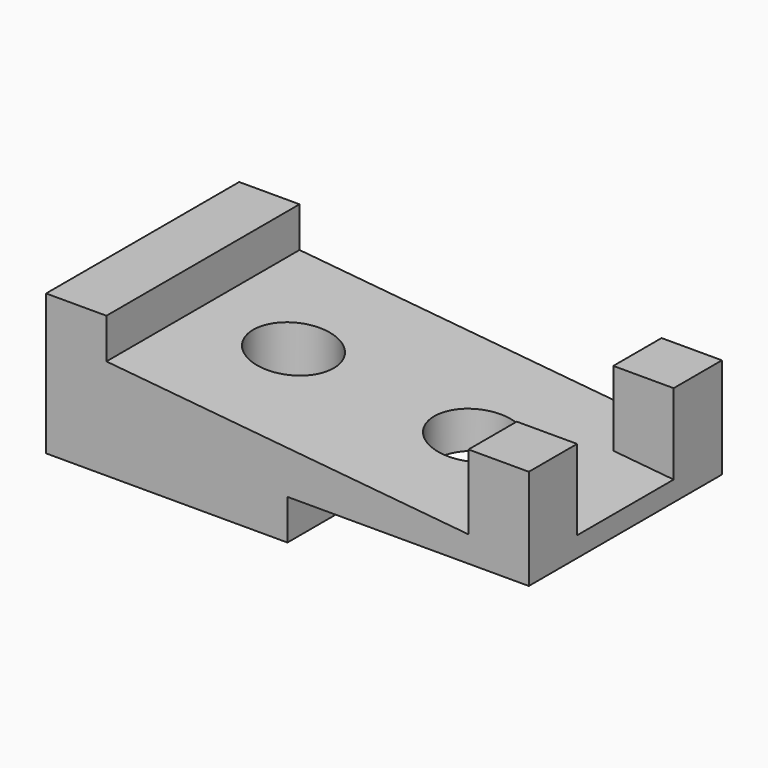
from build123d import *

# Parameters (mm, degrees)
SKETCH_W        = 120
SKETCH_H        = 60
PAD_DEPTH       = 35
POCKET_DEPTH    = 60.001
SKETCH002_W     = 15
SKETCH002_H     = 15
PAD001_DEPTH    = 35
SKETCH003_R     = 10
POCKET001_DEPTH = 35.001
SKETCH004_W     = 60
SKETCH004_H     = 60
POCKET002_DEPTH = 10


with BuildPart() as part:
    # Sketch → Pad (new body)
    with BuildSketch(Plane.XY):
        Rectangle(SKETCH_W, SKETCH_H)
    extrude(amount=PAD_DEPTH)

    # Sketch001 → Pocket (cut, through all)
    with BuildSketch(Plane.XZ.offset(30)):
        Polygon((-45, 35), (-45, 25), (60, 15), (60, 35), align=None)
    extrude(amount=-POCKET_DEPTH, mode=Mode.SUBTRACT)

    # Sketch002 → Pad001 (new body)
    with BuildSketch(Plane(origin=(0, 0, 0), x_dir=(1, 0, 0), z_dir=(0, 0, -1))):
        with Locations((52.5, 22.5)):
            Rectangle(SKETCH002_W, SKETCH002_H)
        with Locations((52.5, -22.5)):
            Rectangle(SKETCH002_W, SKETCH002_H)
    extrude(amount=-PAD001_DEPTH)

    # Sketch003 → Pocket001 (cut, through all)
    with BuildSketch(Plane(origin=(0, 0, 0), x_dir=(1, 0, 0), z_dir=(0, 0, -1))):
        with Locations((-22.5, 0)):
            Circle(SKETCH003_R)
        with Locations((22.5, 0)):
            Circle(SKETCH003_R)
    extrude(amount=-POCKET001_DEPTH, mode=Mode.SUBTRACT)

    # Sketch004 → Pocket002 (cut)
    with BuildSketch(Plane(origin=(0, 0, 0), x_dir=(1, 0, 0), z_dir=(0, 0, -1))):
        with Locations((30, 0)):
            Rectangle(SKETCH004_W, SKETCH004_H)
    extrude(amount=-POCKET002_DEPTH, mode=Mode.SUBTRACT)


solid = part.part
